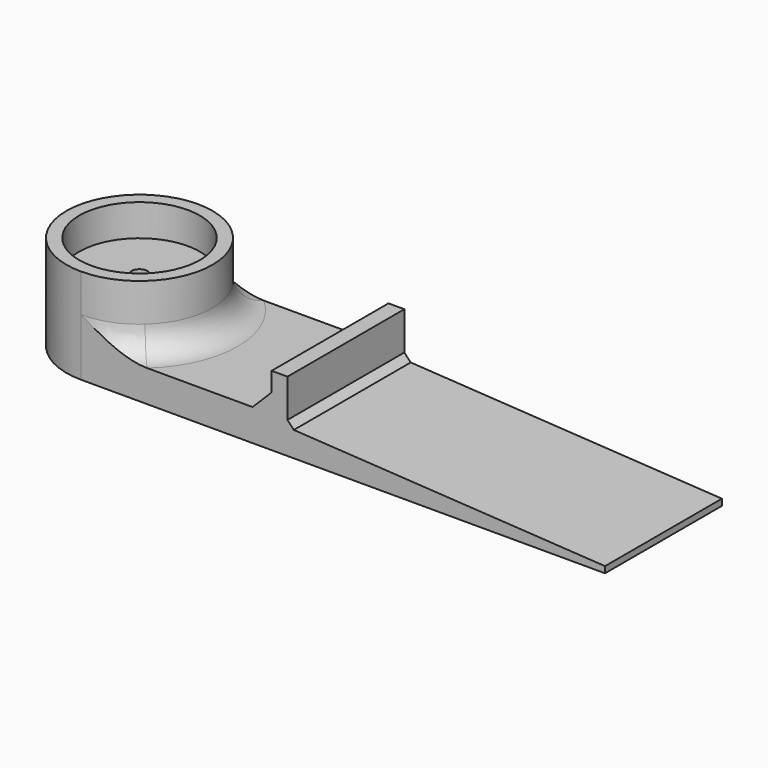
from build123d import *

# Parameters (mm, degrees)
PAD_DEPTH       = 11.5
POCKET_DEPTH    = 15
SKETCH003_R     = 9.5
POCKET001_DEPTH = 5
POCKET002_DEPTH = 10
FILLET_R        = 4
CHAMFER_SIZE    = 3
CHAMFER001_SIZE = 1
SKETCH006_R     = 1.25
POCKET003_DEPTH = 30


with BuildPart() as part:
    # Sketch → Pad (new body, symmetric)
    with BuildSketch(Plane.XZ):
        Polygon((-11.5, 0), (82.5, 0), (82.5, 1), (32.5, 4), (32.5, 11), (30, 11), (30, 5), (11.5, 5), (11.5, 15), (-11.5, 15), align=None)
    extrude(amount=PAD_DEPTH, both=True)

    # Sketch001 → Pocket (cut)
    with BuildSketch(Plane.XY):
        with BuildLine():
            ThreePointArc((-0.035747, 11.499944), (-11.5, 0), (-0.035747, -11.499944))
            Line((-0.035747, -11.499944), (-0.035747, -22.999972))
            ThreePointArc((-0.035747, 22.999972), (-23, 0), (-0.035747, -22.999972))
            Line((-0.035747, 22.999972), (-0.035747, 11.499944))
        make_face()
    extrude(amount=POCKET_DEPTH, mode=Mode.SUBTRACT)

    # Sketch003 (on DatumPlane) → Pocket001 (cut)
    with BuildSketch(Plane(origin=(0, 0, 15), x_dir=(-1, 0, 0), z_dir=(0, 0, 1))):
        Circle(SKETCH003_R)
    extrude(amount=-POCKET001_DEPTH, mode=Mode.SUBTRACT)

    # Sketch005 (on Face1 of Pocket001) → Pocket002 (cut)
    with BuildSketch(Plane(origin=(0, 0, 15), x_dir=(-1, 0, 0), z_dir=(0, 0, 1))):
        with BuildLine():
            ThreePointArc((0, 11.5), (-11.5, 0), (0, -11.5))
            Line((0, -11.5), (0, -23))
            ThreePointArc((0, 23), (-23, 0), (0, -23))
            Line((0, 23), (0, 11.5))
        make_face()
    extrude(amount=-POCKET002_DEPTH, mode=Mode.SUBTRACT)

    # Fillet
    fillet_edges = [part.edges().sort_by_distance(p)[0] for p in [
        (8.131728, -8.131728, 5),
        (8.131728, 8.131728, 5),
    ]]
    fillet(fillet_edges, radius=FILLET_R)

    # Chamfer
    chamfer_edges = [part.edges().sort_by_distance(p)[0] for p in [
        (30, 0, 5),
    ]]
    chamfer(chamfer_edges, length=CHAMFER_SIZE)

    # Chamfer001
    chamfer001_edges = [part.edges().sort_by_distance(p)[0] for p in [
        (32.5, 0, 4),
    ]]
    chamfer(chamfer001_edges, length=CHAMFER001_SIZE)

    # Sketch006 → Pocket003 (cut)
    with BuildSketch(Plane.XY):
        Circle(SKETCH006_R)
    extrude(amount=POCKET003_DEPTH, mode=Mode.SUBTRACT)


solid = part.part
